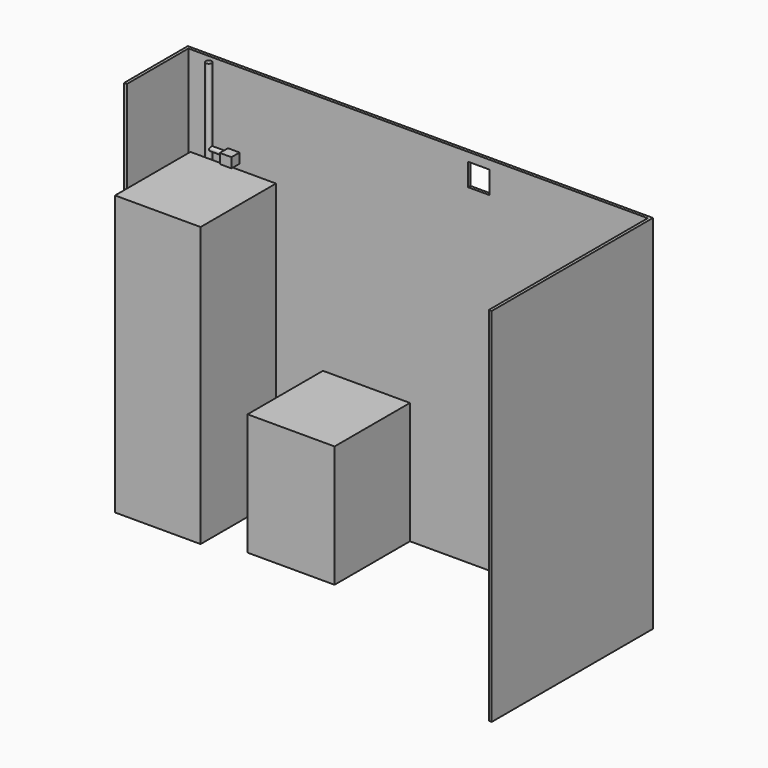
from build123d import *

# Parameters (mm, degrees)
F1_DEPTH  = 2495
F2_W      = 150
F2_H      = 155
F3_DEPTH  = 25
F4_W      = 590
F4_H      = 650
F5_DEPTH  = 1925
F6_W      = 600
F6_H      = 650
F7_DEPTH  = 840
F8_R      = 20
F9_DEPTH  = 2495
F12_DEPTH = 200
F14_DEPTH = 80


with BuildPart() as f1:
    # F0 (on Top) → F1 (new body)
    with BuildSketch(Plane.XY):
        Polygon((0, 0), (0, 530), (3168, 530), (3168, -840), (3188, -840), (3188, 550), (-20, 550), (-20, 0), align=None)
    extrude(amount=F1_DEPTH)

    # F2 (on face) → F3 (cut)
    with BuildSketch(Plane.XZ.offset(-530)):
        with Locations((2003, 2357.5)):
            Rectangle(F2_W, F2_H)
    extrude(amount=-F3_DEPTH, mode=Mode.SUBTRACT)


with BuildPart() as f5:
    # F4 (on Top) → F5 (new body)
    with BuildSketch(Plane.XY):
        with Locations((373, 125)):
            Rectangle(F4_W, F4_H)
    extrude(amount=F5_DEPTH)


with BuildPart() as f7:
    # F6 (on Top) → F7 (new body)
    with BuildSketch(Plane.XY):
        with Locations((1228, 205)):
            Rectangle(F6_W, F6_H)
    extrude(amount=F7_DEPTH)


with BuildPart() as f9:
    # F8 (on Top) → F9 (new body, through all)
    with BuildSketch(Plane.XY):
        with Locations((185, 475)):
            Circle(F8_R)
    extrude(amount=F9_DEPTH)


with BuildPart() as f12:
    # F11 (on offset) → F12 (new body)
    with BuildSketch(Plane.YZ.offset(185)):
        with BuildLine():
            ThreePointArc((475, 1990), (464.3933982822, 1964.3933982822), (490, 1975))
            ThreePointArc((490, 1975), (485.6066017178, 1985.6066017178), (475, 1990))
        make_face()
    extrude(amount=F12_DEPTH)


with BuildPart() as f14:
    # F13 (on face) → F14 (new body)
    with BuildSketch(Plane.YZ.offset(385)):
        Polygon((420, 1937), (490, 1937), (490, 2005), (420, 2005), (420, 1971), align=None)
    extrude(amount=-F14_DEPTH)


solid = Compound([f1.part, f5.part, f7.part, f9.part, f12.part, f14.part])
